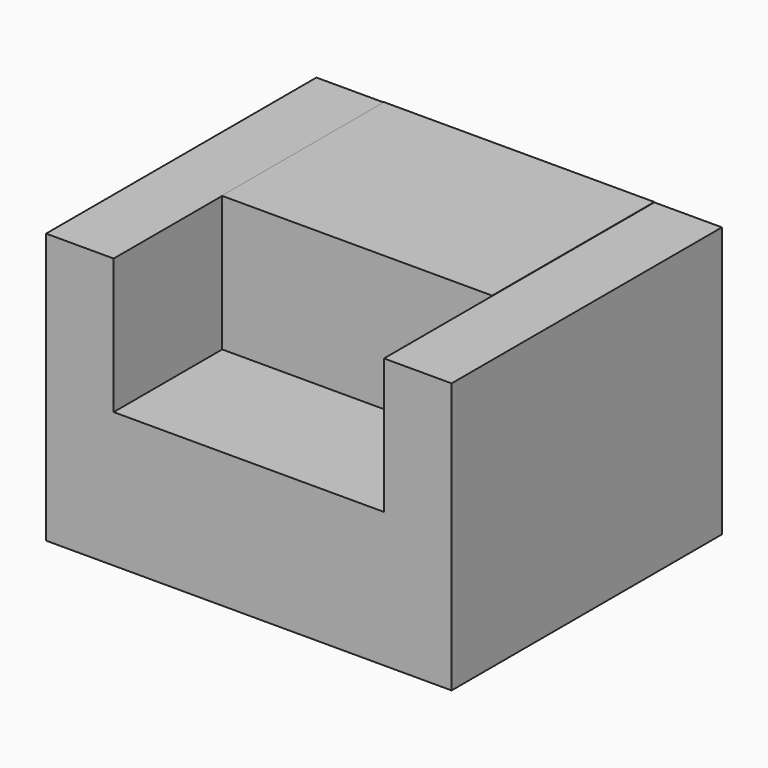
from build123d import *

# Parameters (mm, degrees)
F1_DEPTH = 127
F2_W     = 101.6
F2_H     = 50.8
F3_DEPTH = 76.2


with BuildPart() as f1:
    # F0 (on Front) → F1 (new body)
    with BuildSketch(Plane.XZ):
        Polygon((-25.4, 29.334792), (-25.4, -72.265208), (127, -72.265208), (127, 29.334792), (101.6, 29.334792), (101.6, -21.465208), (0, -21.465208), (0, 29.334792), align=None)
    extrude(amount=F1_DEPTH)

    # F2 (on Front) → F3 (join)
    with BuildSketch(Plane.XZ):
        with Locations((50.8, 4.069334)):
            Rectangle(F2_W, F2_H)
    extrude(amount=F3_DEPTH)


solid = f1.part
